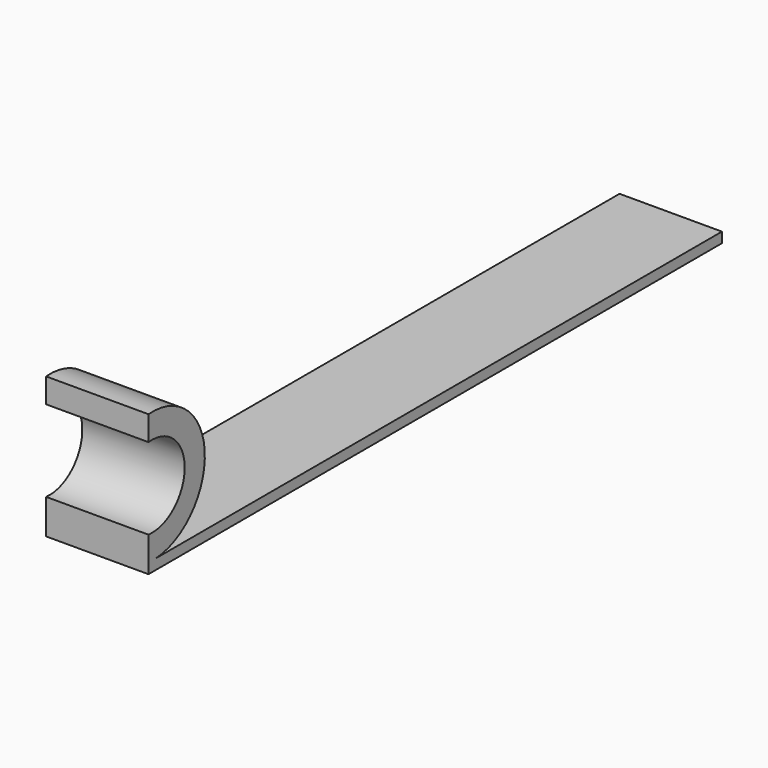
from build123d import *

# Parameters (mm, degrees)
F0_W     = 25.4
F0_H     = 177.8
F1_DEPTH = 2.54
F4_DEPTH = 25.4


with BuildPart() as f1:
    # F0 (on Top) → F1 (new body)
    with BuildSketch(Plane.XY):
        with Locations((-51.181969, 33.563137)):
            Rectangle(F0_W, F0_H)
    extrude(amount=F1_DEPTH)

    # F3 (on face) → F4 (join)
    with BuildSketch(Plane.YZ.offset(-63.881969)):
        with BuildLine():
            Line((-55.336863, 8.636), (-55.336863, 2.54))
            ThreePointArc((-55.336863, 2.54), (-37.867352, 18.739499), (-55.336863, 34.938998))
            Line((-55.336863, 34.938998), (-55.336863, 28.842998))
            ThreePointArc((-55.336863, 28.842998), (-44.106861, 18.739499), (-55.336863, 8.636))
        make_face()
    extrude(amount=F4_DEPTH)


solid = f1.part
